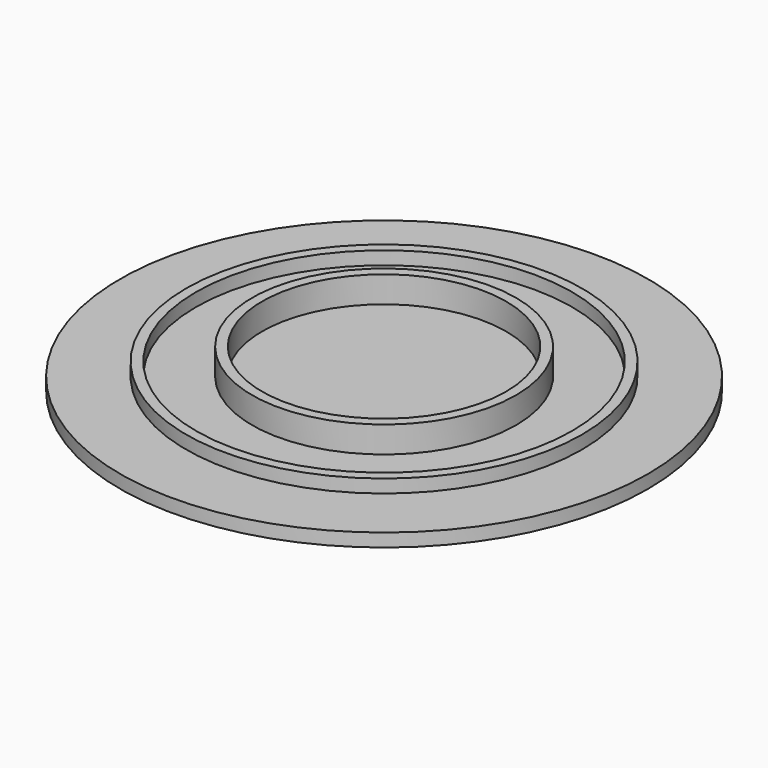
from build123d import *

# Parameters (mm, degrees)
F0_R     = 40
F1_DEPTH = 2
F2_R     = 30
F2_R_2   = 28.5
F3_DEPTH = 2
F4_R     = 20
F4_R_2   = 18.5
F5_DEPTH = 4


with BuildPart() as f1:
    # F0 (on Top) → F1 (new body)
    with BuildSketch(Plane.XY):
        Circle(F0_R)
    extrude(amount=F1_DEPTH)

    # F2 (on face) → F3 (join)
    with BuildSketch(Plane.XY.offset(2)):
        Circle(F2_R)
        Circle(F2_R_2, mode=Mode.SUBTRACT)
    extrude(amount=F3_DEPTH)

    # F4 (on face) → F5 (join)
    with BuildSketch(Plane.XY.offset(2)):
        Circle(F4_R)
        Circle(F4_R_2, mode=Mode.SUBTRACT)
    extrude(amount=F5_DEPTH)


solid = f1.part
